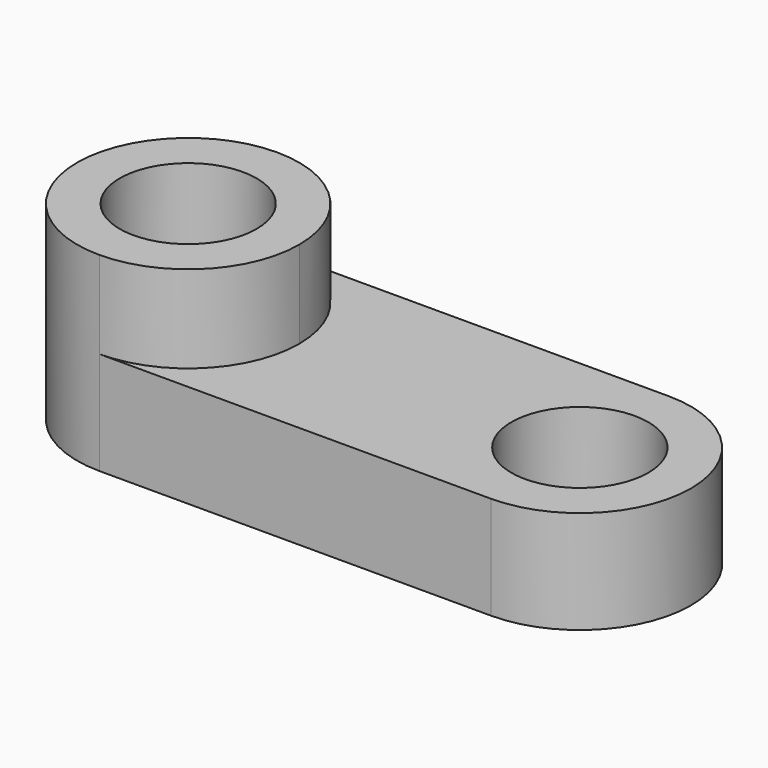
from build123d import *

# Parameters (mm, degrees)
F0_R     = 15.550271
F1_DEPTH = 43.18
F2_DEPTH = 23.368


with BuildPart() as f1:
    # F0 (on Top) → F1 (new body)
    with BuildSketch(Plane.XY):
        with BuildLine():
            ThreePointArc((-48.846155, -25.216162), (-31.015636, -17.830519), (-23.629993, 0))
            ThreePointArc((-23.629993, 0), (-31.015636, 17.830519), (-48.846155, 25.216162))
            ThreePointArc((-48.846155, 25.216162), (-74.062317, 0), (-48.846155, -25.216162))
        make_face()
        with Locations((-48.846155, 0)):
            Circle(F0_R, mode=Mode.SUBTRACT)
    extrude(amount=F1_DEPTH)

    # F0 (on Top) → F2 (join)
    with BuildSketch(Plane.XY):
        with BuildLine():
            ThreePointArc((-48.846155, -25.216162), (-31.015636, -17.830519), (-23.629993, 0))
            ThreePointArc((-23.629993, 0), (-31.015636, 17.830519), (-48.846155, 25.216162))
            ThreePointArc((-48.846155, 25.216162), (-74.062317, 0), (-48.846155, -25.216162))
        make_face()
        with Locations((-48.846155, 0)):
            Circle(F0_R, mode=Mode.SUBTRACT)
        with BuildLine():
            ThreePointArc((-48.846155, 25.216162), (-31.015636, 17.830519), (-23.629993, 0))
            ThreePointArc((-23.629993, 0), (-31.015636, -17.830519), (-48.846155, -25.216162))
            Line((-48.846155, -25.216162), (40.053848, -25.216162))
            ThreePointArc((40.053848, -25.216162), (65.27001, 0), (40.053848, 25.216162))
            Line((40.053848, 25.216162), (-48.846155, 25.216162))
        make_face()
        with Locations((40.053848, 0)):
            Circle(F0_R, mode=Mode.SUBTRACT)
    extrude(amount=F2_DEPTH)


solid = f1.part
